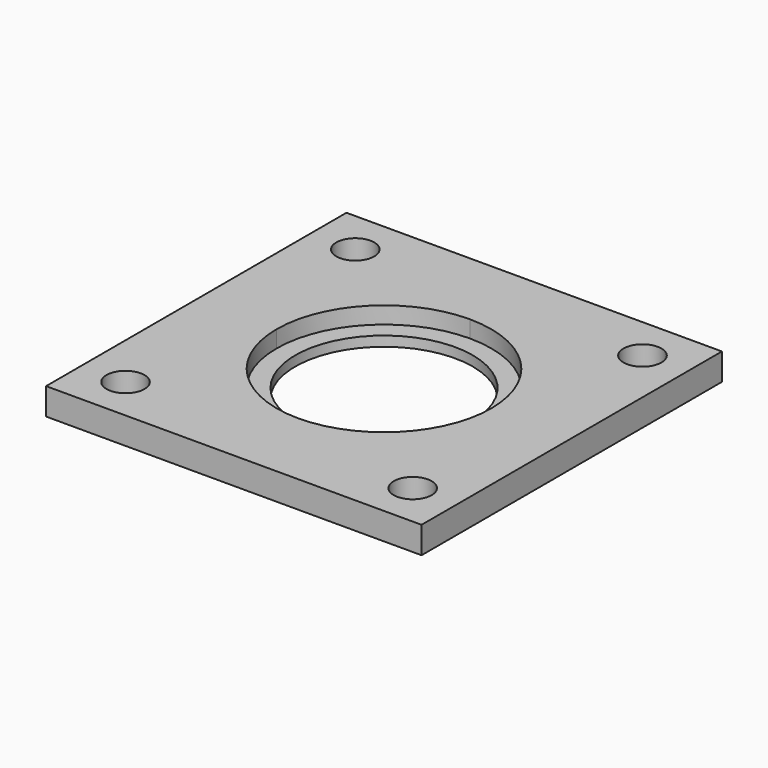
from build123d import *

# Parameters (mm, degrees)
F0_W     = 5.225
F0_H     = 5.225
F0_W_2   = 34
F0_H_2   = 34
F1_DEPTH = 3.175
F2_D     = 4.4958
F2_DEPTH = 45.72
F2_TIP   = 1.3506745855
F4_DEPTH = 2
F5_R     = 10.5
F6_DEPTH = 1.176


with BuildPart() as f1:
    # F0 (on Top) → F1 (new body)
    with BuildSketch(Plane.XY):
        Polygon((0, 39.225), (0, 0), (39.225, 0), (39.225, 5.225), (5.225, 5.225), (5.225, 39.225), align=None)
        with Locations((41.8375, 2.6125)):
            Rectangle(F0_W, F0_H)
        with Locations((2.6125, 41.8375)):
            Rectangle(F0_W, F0_H)
        Polygon((39.225, 39.225), (39.225, 5.225), (44.45, 5.225), (44.45, 44.45), (5.225, 44.45), (5.225, 39.225), align=None)
        with Locations((22.225, 22.225)):
            Rectangle(F0_W_2, F0_H_2)
    extrude(amount=F1_DEPTH)

    # F2
    with Locations(Plane(origin=(0, 0, 0), x_dir=(1, 0, 0), z_dir=(0, 0, -1))):
        with Locations((5.225, -39.225), (39.225, -39.225), (39.225, -5.225), (5.225, -5.225)):
            Hole(F2_D / 2, depth=F2_DEPTH)
            with Locations((0, 0, -(F2_DEPTH + F2_TIP / 2))):  # 118° drill point
                Cone(0, F2_D / 2, F2_TIP, mode=Mode.SUBTRACT)

    # F3 (on face) → F4 (cut)
    with BuildSketch(Plane.XY.offset(3.175)):
        with BuildLine():
            ThreePointArc((34.925, 22.225), (31.2052561211, 31.2052561211), (22.225, 34.925))
            Line((22.225, 34.925), (22.225, 22.225))
            Line((22.225, 22.225), (34.925, 22.225))
        make_face()
        with BuildLine():
            Line((22.225, 22.225), (22.225, 34.925))
            ThreePointArc((22.225, 34.925), (13.2447438789, 31.2052561211), (9.525, 22.225))
            Line((9.525, 22.225), (22.225, 22.225))
        make_face()
        with BuildLine():
            Line((34.925, 22.225), (22.225, 22.225))
            Line((22.225, 22.225), (22.225, 9.525))
            ThreePointArc((22.225, 9.525), (31.2052561211, 13.2447438789), (34.925, 22.225))
        make_face()
        with BuildLine():
            Line((22.225, 9.525), (22.225, 22.225))
            Line((22.225, 22.225), (9.525, 22.225))
            ThreePointArc((9.525, 22.225), (13.2447438789, 13.2447438789), (22.225, 9.525))
        make_face()
    extrude(amount=-F4_DEPTH, mode=Mode.SUBTRACT)

    # F5 (on face) → F6 (cut, through all)
    with BuildSketch(Plane.XY.offset(1.175)):
        with Locations((22.225, 22.225)):
            Circle(F5_R)
    extrude(amount=-F6_DEPTH, mode=Mode.SUBTRACT)


solid = f1.part
